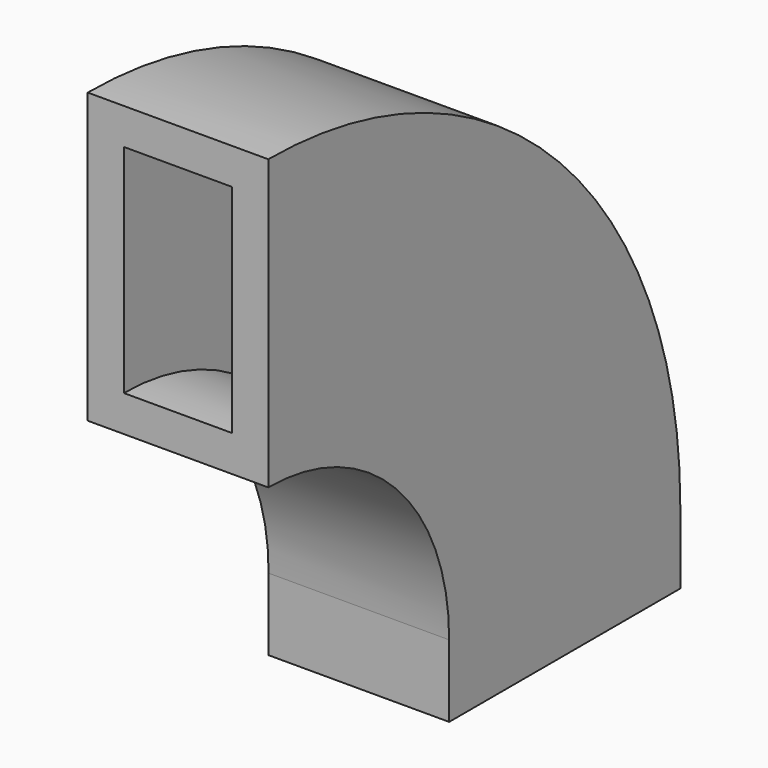
from build123d import *

# Parameters (mm, degrees)
F0_W     = 25
F0_H     = 40
F2_ANGLE = 90
F1_W     = 15
F1_H     = 30
F3_ANGLE = 90
F4_DEPTH = 10
F5_DEPTH = 10


with BuildPart() as f2:
    # F0 (on Top) → F2 (revolve)
    with BuildSketch(Plane.XY):
        Rectangle(F0_W, F0_H)
    revolve(axis=Axis((-1.096226, -51.309453, 0), (1, 0, 0)), revolution_arc=F2_ANGLE)

    # F1 (on Top) → F3 (revolve, cut)
    with BuildSketch(Plane.XY):
        Rectangle(F1_W, F1_H)
    revolve(axis=Axis((-1.096226, -51.309453, 0), (1, 0, 0)), revolution_arc=F3_ANGLE, mode=Mode.SUBTRACT)

    # F0 (on Top) → F4 (join)
    with BuildSketch(Plane.XY):
        Rectangle(F0_W, F0_H)
    extrude(amount=-F4_DEPTH)

    # F1 (on Top) → F5 (cut)
    with BuildSketch(Plane.XY):
        Rectangle(F1_W, F1_H)
    extrude(amount=-F5_DEPTH, mode=Mode.SUBTRACT)


solid = f2.part
